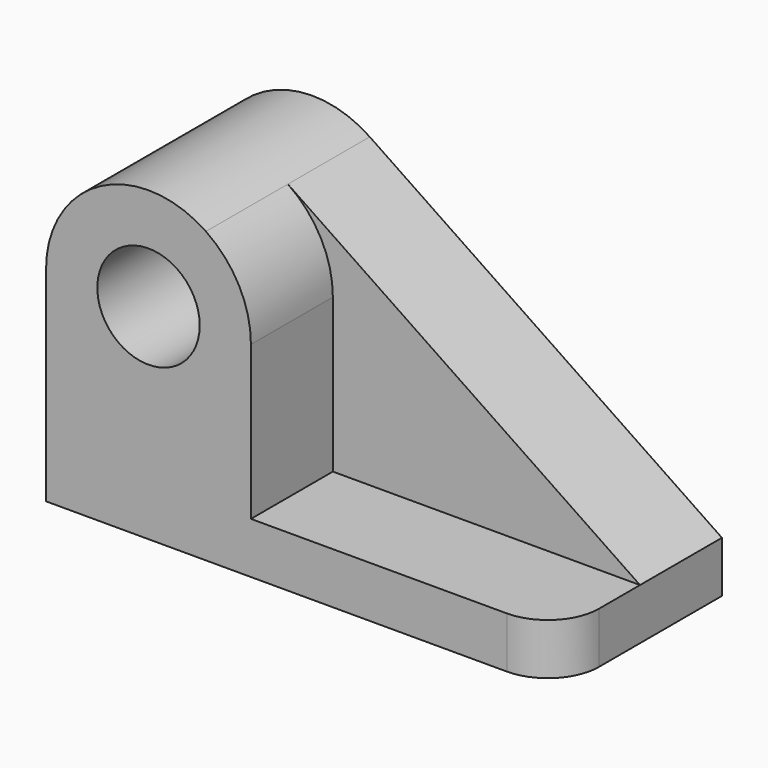
from build123d import *

# Parameters (mm, degrees)
F0_R     = 12.7
F1_DEPTH = 25.4
F2_R     = 12.7
F3_DEPTH = 25.4
F4_R     = 12.7


with BuildPart() as f1:
    # F0 (on Front) → F1 (new body)
    with BuildSketch(Plane.XZ):
        with BuildLine():
            Line((61.112298, 12.7), (-26.23751, 71.838392))
            ThreePointArc((-26.23751, 71.838392), (-52.389372, 73.242992), (-65.887702, 50.8))
            Line((-65.887702, 50.8), (-65.887702, 0))
            Line((-65.887702, 0), (61.112298, 0))
            Line((61.112298, 0), (61.112298, 12.7))
        make_face()
        with Locations((-40.48112, 50.8)):
            Circle(F0_R, mode=Mode.SUBTRACT)
    extrude(amount=F1_DEPTH)

    # F2 (on face) → F3 (join)
    with BuildSketch(Plane.XZ.offset(25.4)):
        with BuildLine():
            Line((61.112298, 0), (61.112298, 12.7))
            Line((61.112298, 12.7), (-15.074539, 12.7))
            Line((-15.074539, 12.7), (-15.074539, 50.8))
            ThreePointArc((-15.074539, 50.8), (-18.038128, 62.708252), (-26.23751, 71.838392))
            ThreePointArc((-26.23751, 71.838392), (-52.389372, 73.242992), (-65.887702, 50.8))
            Line((-65.887702, 50.8), (-65.887702, 12.7))
            Line((-65.887702, 12.7), (-65.887702, 0))
            Line((-65.887702, 0), (61.112298, 0))
        make_face()
        with Locations((-40.48112, 50.8)):
            Circle(F2_R, mode=Mode.SUBTRACT)
    extrude(amount=F3_DEPTH)

    # F4
    f4_edges = [f1.edges().sort_by_distance(p)[0] for p in [
        (61.112298, -50.8, 6.35),
    ]]
    fillet(f4_edges, radius=F4_R)


solid = f1.part
